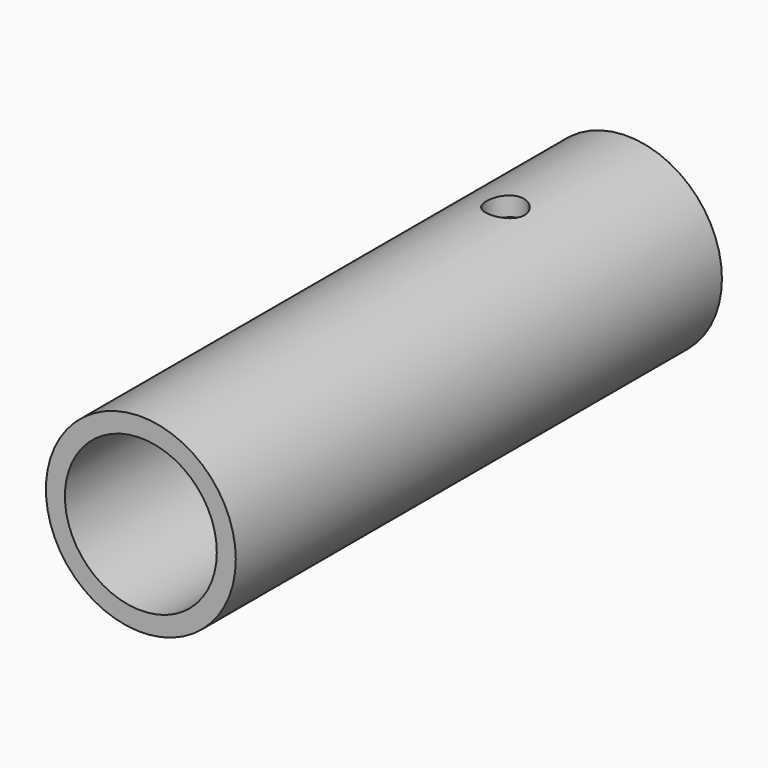
from build123d import *

# Parameters (mm, degrees)
F0_R     = 15.875
F0_R_2   = 12.7
F1_DEPTH = 101.6
F2_R     = 3.175
F3_DEPTH = 15.876


with BuildPart() as f1:
    # F0 (on Front) → F1 (new body)
    with BuildSketch(Plane.XZ):
        Circle(F0_R)
        Circle(F0_R_2, mode=Mode.SUBTRACT)
    extrude(amount=F1_DEPTH)

    # F2 (on Top) → F3 (cut, through all)
    with BuildSketch(Plane.XY):
        with Locations((0, -25.4)):
            Circle(F2_R)
    extrude(amount=F3_DEPTH, mode=Mode.SUBTRACT)


solid = f1.part
